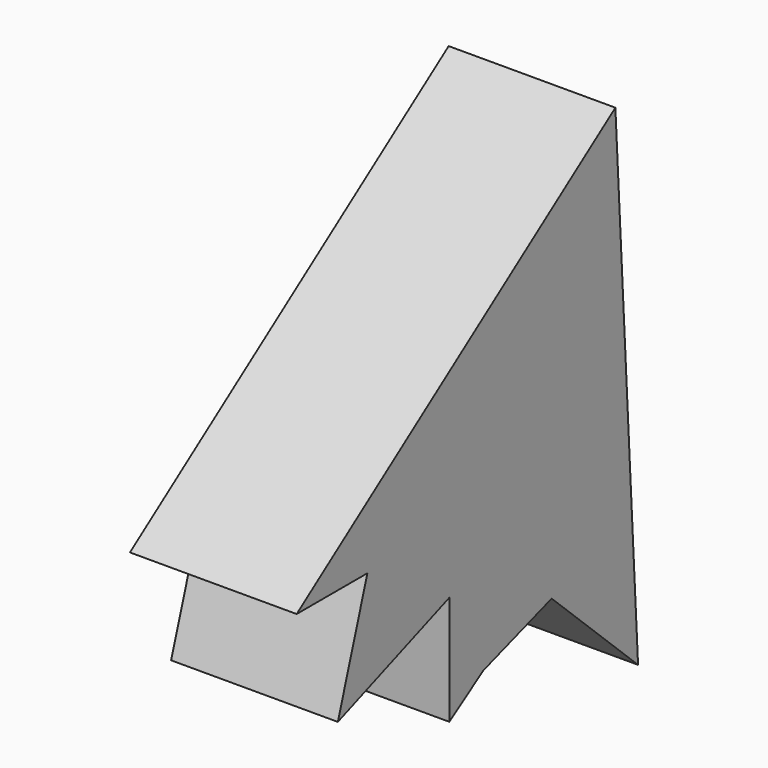
from build123d import *

# Parameters (mm, degrees)
F1_DEPTH = 25.4


with BuildPart() as f1:
    # F0 (on Right) → F1 (new body)
    with BuildSketch(Plane.YZ):
        Polygon((16.457587, -15.587584), (12.138516, 60.897749), (-48.554059, 17.6582), (-35.080649, 17.6582), (-40.710874, 0), (-19.489251, 8.038146), (-19.489251, -8.612424), (-12.992837, -4.364016), (0, 0), align=None)
    extrude(amount=F1_DEPTH)


solid = f1.part
